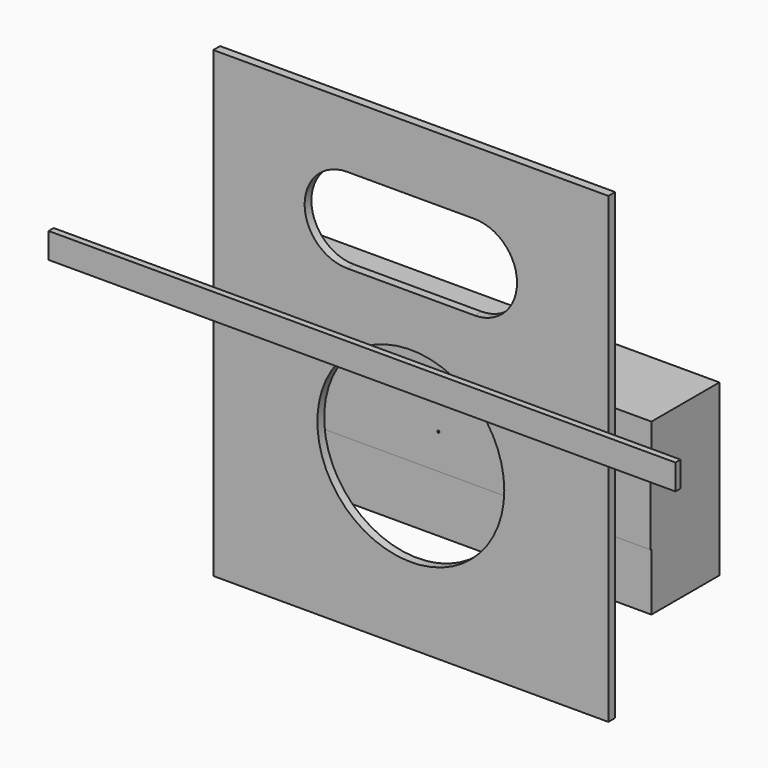
from build123d import *

# Parameters (mm, degrees)
F0_W     = 100
F0_H     = 10
F0_H_2   = 16.5
F0_R     = 0.25
F0_H_3   = 13.5
F1_DEPTH = 20
F2_DEPTH = 0.2
F4_W     = 93
F4_H     = 109
F4_R     = 22
F5_DEPTH = 2
F7_W     = 147.5555372408
F7_H     = 6
F8_DEPTH = 1.5


with BuildPart() as f1:
    # F0 (on Front) → F1 (new body)
    with BuildSketch(Plane.XZ):
        with Locations((0, 15)):
            Rectangle(F0_W, F0_H)
        with Locations((0, 1.75)):
            Rectangle(F0_W, F0_H_2)
        with Locations((0, 1.75)):
            Circle(F0_R, mode=Mode.SUBTRACT)
        with Locations((0, -13.25)):
            Rectangle(F0_W, F0_H_3)
    extrude(amount=-F1_DEPTH)

    # F0 (on Front) → F2 (join)
    with BuildSketch(Plane.XZ):
        with Locations((0, 1.75)):
            Rectangle(F0_W, F0_H_2)
        with Locations((0, 1.75)):
            Circle(F0_R, mode=Mode.SUBTRACT)
    extrude(amount=F2_DEPTH)


with BuildPart() as f5:
    # F4 (on offset) → F5 (new body)
    with BuildSketch(Plane.XZ.offset(8.3)):
        with Locations((0, 14.5)):
            Rectangle(F4_W, F4_H)
        Circle(F4_R, mode=Mode.SUBTRACT)
        with BuildLine():
            ThreePointArc((-15, 34), (-25, 44), (-15, 54))
            Line((-15, 54), (15, 54))
            ThreePointArc((15, 54), (25, 44), (15, 34))
            Line((15, 34), (-15, 34))
        make_face(mode=Mode.SUBTRACT)
    extrude(amount=-F5_DEPTH)


with BuildPart() as f8:
    # F7 (on offset) → F8 (new body)
    with BuildSketch(Plane.XZ.offset(24.3)):
        with Locations((2.5111660361, 27.5580342859)):
            Rectangle(F7_W, F7_H)
    extrude(amount=F8_DEPTH)


solid = Compound([f1.part, f5.part, f8.part])
